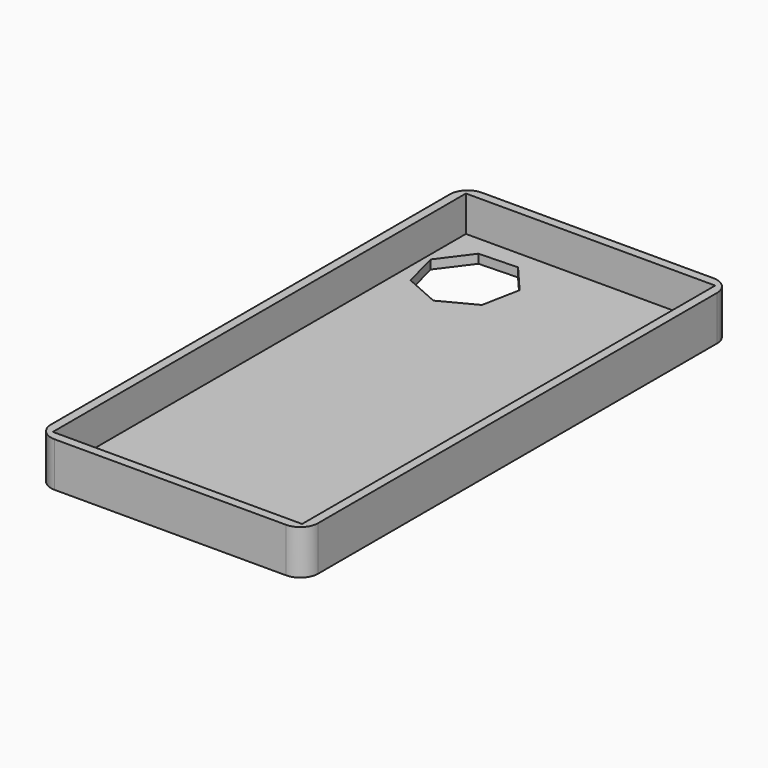
from build123d import *

# Parameters (mm, degrees)
F0_W     = 76.2
F0_H     = 152.4
F1_DEPTH = 12.7
F2_T     = -2.54
F4_DEPTH = 58.25523
F5_R     = 5.08


with BuildPart() as f1:
    # F0 (on Top) → F1 (new body)
    with BuildSketch(Plane.XY):
        with Locations((-4.155798, -0.207823)):
            Rectangle(F0_W, F0_H)
    extrude(amount=-F1_DEPTH)

    # F2
    f2_openings = [f1.faces().sort_by_distance(p)[0] for p in [
        (-4.155798, -0.207823, 0),
    ]]
    offset(amount=F2_T, openings=f2_openings)

    # F3 (on face) → F4 (cut)
    with BuildSketch(Plane.XY.offset(-10.16)):
        Polygon((-35.365767, 48.259617), (-25.284341, 43.805525), (-15.516325, 48.91042), (-13.417234, 59.730213), (-20.567727, 68.117378), (-31.583337, 67.75621), (-38.169084, 58.918675), align=None)
    extrude(amount=-F4_DEPTH, mode=Mode.SUBTRACT)

    # F5
    f5_edges = [f1.edges().sort_by_distance(p)[0] for p in [
        (33.944202, -76.407823, -6.35),
        (-42.255798, -76.407823, -6.35),
        (33.944202, 75.992177, -6.35),
        (-42.255798, 75.992177, -6.35),
    ]]
    fillet(f5_edges, radius=F5_R)


solid = f1.part
